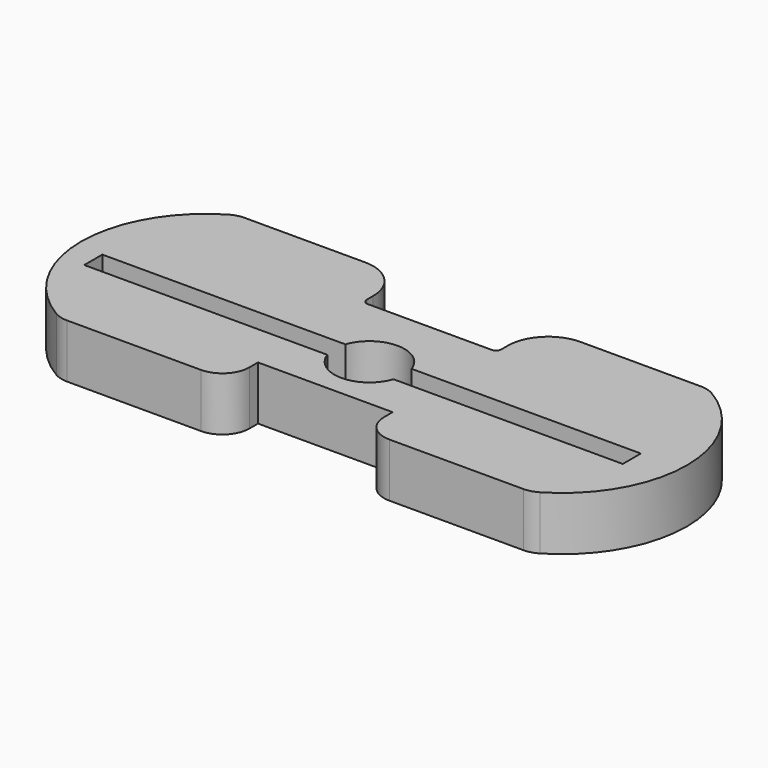
from build123d import *

# Parameters (mm, degrees)
F0_R     = 16.51
F1_DEPTH = 25.4
F3_DEPTH = 25.4


with BuildPart() as f1:
    # F0 (on Top) → F1 (new body)
    with BuildSketch(Plane.XY):
        with BuildLine():
            Line((-59.474408, 49.904256), (-116.272106, 49.904256))
            ThreePointArc((-116.272106, 49.904256), (-119.637285, 49.450299), (-122.76189, 48.120881))
            ThreePointArc((-122.76189, 48.120881), (-151.549408, -2.483244), (-122.76189, -53.087369))
            ThreePointArc((-122.76189, -53.087369), (-119.637285, -54.416787), (-116.272106, -54.870744))
            Line((-116.272106, -54.870744), (-53.124408, -54.870744))
            ThreePointArc((-53.124408, -54.870744), (-44.144152, -51.151), (-40.424408, -42.170744))
            Line((-40.424408, -42.170744), (-40.424408, -37.090744))
            Line((-40.424408, -37.090744), (-8.674408, -37.090744))
            Line((-8.674408, -37.090744), (23.075592, -37.090744))
            Line((23.075592, -37.090744), (23.075592, -42.170744))
            ThreePointArc((23.075592, -42.170744), (26.795336, -51.151), (35.775592, -54.870744))
            Line((35.775592, -54.870744), (98.923289, -54.870744))
            ThreePointArc((98.923289, -54.870744), (102.288469, -54.416787), (105.413074, -53.087369))
            ThreePointArc((105.413074, -53.087369), (134.200592, -2.483244), (105.413074, 48.120881))
            ThreePointArc((105.413074, 48.120881), (102.288469, 49.450299), (98.923289, 49.904256))
            Line((98.923289, 49.904256), (42.125592, 49.904256))
            ThreePointArc((42.125592, 49.904256), (28.655208, 44.324641), (23.075592, 30.854256))
            Line((23.075592, 30.854256), (23.075592, 27.044256))
            ThreePointArc((23.075592, 27.044256), (22.331643, 25.248205), (20.535592, 24.504256))
            Line((20.535592, 24.504256), (-8.674408, 24.504256))
            Line((-8.674408, 24.504256), (-37.884408, 24.504256))
            ThreePointArc((-37.884408, 24.504256), (-39.68046, 25.248205), (-40.424408, 27.044256))
            Line((-40.424408, 27.044256), (-40.424408, 30.854256))
            ThreePointArc((-40.424408, 30.854256), (-46.004024, 44.324641), (-59.474408, 49.904256))
        make_face()
        with Locations((-8.674408, -11.055744)):
            Circle(F0_R, mode=Mode.SUBTRACT)
    extrude(amount=F1_DEPTH)

    # F2 (on face) → F3 (cut)
    with BuildSketch(Plane.XY.offset(25.4)):
        with BuildLine():
            Line((115.073166, -5.721744), (6.950205, -5.721744))
            ThreePointArc((6.950205, -5.721744), (7.612741, -8.352252), (7.835592, -11.055744))
            ThreePointArc((7.835592, -11.055744), (7.612741, -13.759235), (6.950205, -16.389744))
            Line((6.950205, -16.389744), (115.073166, -16.389744))
            Line((115.073166, -16.389744), (115.073166, -5.721744))
        make_face()
        with BuildLine():
            Line((6.950205, -5.721744), (-24.299022, -5.721744))
            ThreePointArc((-24.299022, -5.721744), (-25.184408, -11.055744), (-24.299022, -16.389744))
            Line((-24.299022, -16.389744), (6.950205, -16.389744))
            ThreePointArc((6.950205, -16.389744), (7.612741, -13.759235), (7.835592, -11.055744))
            ThreePointArc((7.835592, -11.055744), (7.612741, -8.352252), (6.950205, -5.721744))
        make_face()
        with BuildLine():
            Line((-24.299022, -5.721744), (-138.926834, -5.721744))
            Line((-138.926834, -5.721744), (-138.926834, -16.389744))
            Line((-138.926834, -16.389744), (-24.299022, -16.389744))
            ThreePointArc((-24.299022, -16.389744), (-25.184408, -11.055744), (-24.299022, -5.721744))
        make_face()
    extrude(amount=-F3_DEPTH, mode=Mode.SUBTRACT)


solid = f1.part
